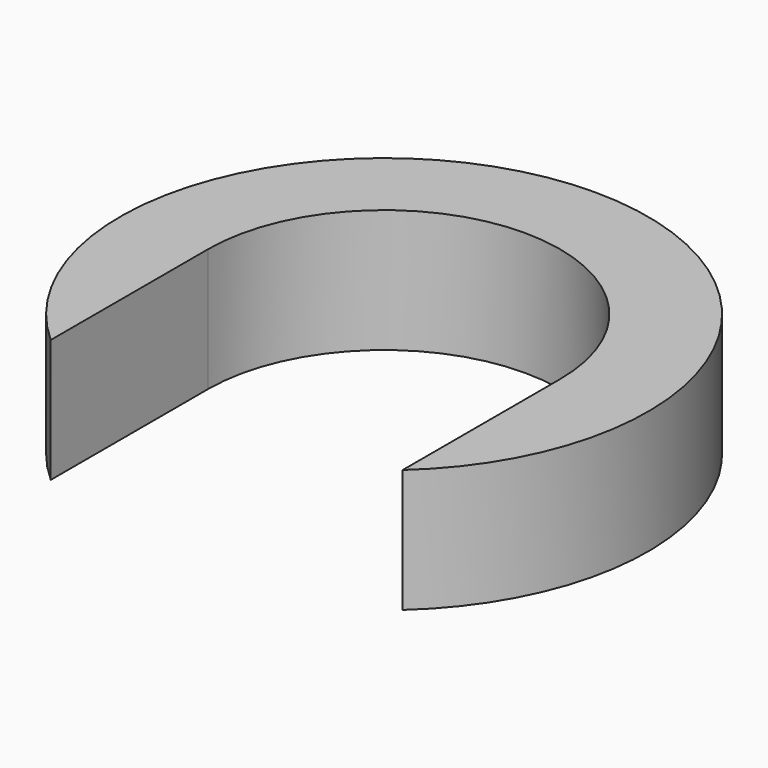
from build123d import *

# Parameters (mm, degrees)
F0_R     = 7.5
F2_DEPTH = 3.5
F3_DEPTH = 25


with BuildPart() as f2:
    # F0 (on Top) → F2 (new body)
    with BuildSketch(Plane.XY):
        Circle(F0_R)
    extrude(amount=F2_DEPTH)

    # F1 (on Top) → F3 (cut)
    with BuildSketch(Plane.XY):
        with BuildLine():
            Line((-5, -7.558879), (0, -7.558879))
            Line((0, -7.558879), (5, -7.558879))
            Line((5, -7.558879), (5, 0))
            ThreePointArc((5, 0), (0, 5), (-5, 0))
            Line((-5, 0), (-5, -7.558879))
        make_face()
    extrude(amount=F3_DEPTH, mode=Mode.SUBTRACT)


solid = f2.part
